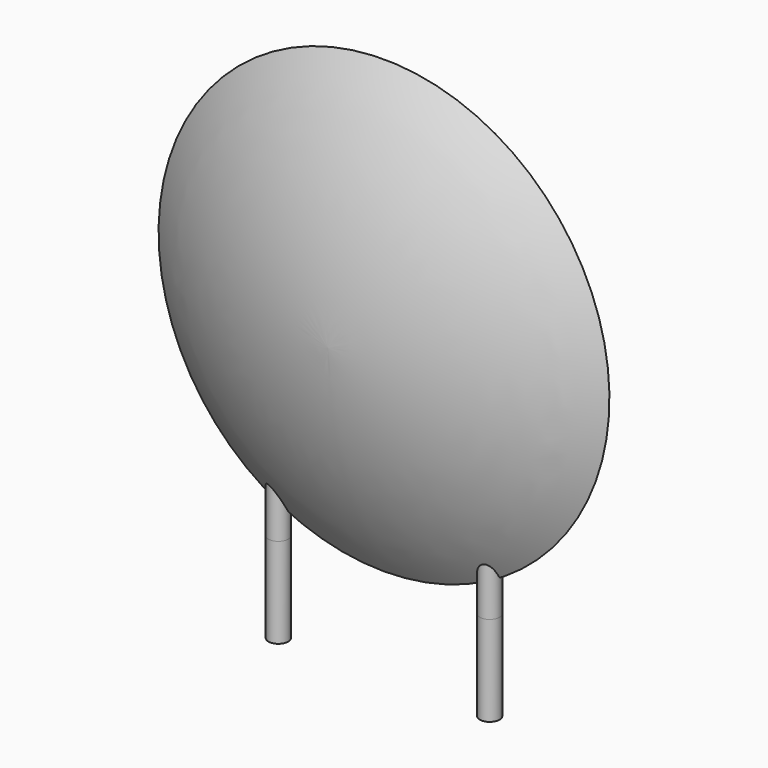
from build123d import *

# Parameters (mm, degrees)
SKETCH001_R       = 0.35
PAD001_DEPTH      = 3.2
PAD001_DEPTH_BACK = -3.2
SKETCH002_R       = 0.35
SKETCH003_R       = 0.35
SKETCH004_R       = 0.35
SKETCH005_R       = 0.35


with BuildPart() as pad001:
    # Sketch001 → Pad001 (new body, two sides)
    with BuildSketch(Plane.XY) as pad001_sk:
        Circle(SKETCH001_R)
        with Locations((7.5, 0)):
            Circle(SKETCH001_R)
    extrude(amount=-PAD001_DEPTH)
    extrude(pad001_sk.sketch, amount=-PAD001_DEPTH_BACK)


with BuildPart() as revolution:
    # Sketch → Revolution (revolve)
    with BuildSketch(Plane.YZ.offset(3.75)):
        with BuildLine():
            Line((-2.5, 8.1), (2.5, 8.1))
            ThreePointArc((0, 0.1), (1.817073, 3.92279), (2.5, 8.1))
            ThreePointArc((-2.5, 8.1), (-1.817073, 3.92279), (0, 0.1))
        make_face()
    revolve(axis=Axis((3.75, -3.32079, 8.1), (0, 1, 0)))


with BuildPart() as loft_body:
    # Sketch002 → Loft section 0
    with BuildSketch(Plane.XY.offset(8)):
        with Locations((-2.65, 0)):
            Circle(SKETCH002_R)
    # Sketch003 → Loft section 1
    with BuildSketch(Plane.XY.offset(3.2)):
        Circle(SKETCH003_R)
    loft()


with BuildPart() as loft001:
    # Sketch004 → Loft001 section 0
    with BuildSketch(Plane.XY.offset(3.2)):
        with Locations((7.5, 0)):
            Circle(SKETCH004_R)
    # Sketch005 → Loft001 section 1
    with BuildSketch(Plane.XY.offset(8)):
        with Locations((10.15, 0)):
            Circle(SKETCH005_R)
    loft()


solid = Compound([pad001.part, revolution.part, loft_body.part, loft001.part])
